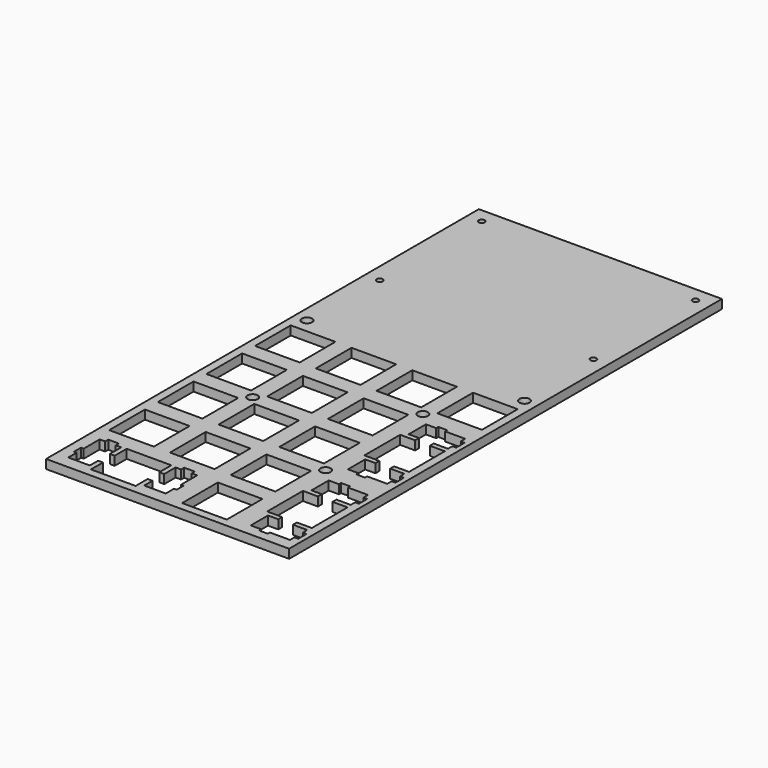
from build123d import *

# Parameters (mm, degrees)
SKETCH_W        = 76.2
SKETCH_H        = 169.6
PAD_DEPTH       = 2.8
SKETCH001_W     = 13.9993
SKETCH001_H     = 13.9993
SKETCH001_H_2   = 13.99946
SKETCH001_W_2   = 13.99955
SKETCH001_H_3   = 13.9994
POCKET_DEPTH    = 5
SKETCH002_R     = 1.6
POCKET001_DEPTH = 2.801
SKETCH011_R     = 0.95
POCKET002_DEPTH = 2.801


with BuildPart() as part:
    # Sketch → Pad (new body)
    with BuildSketch(Plane.XY):
        with Locations((38.1, 84.8)):
            Rectangle(SKETCH_W, SKETCH_H)
    extrude(amount=PAD_DEPTH)

    # Sketch001 (on Face6 of Pad) → Pocket (cut)
    with BuildSketch(Plane.XY.offset(2.8)):
        with Locations((66.674265, 85.725757)):
            Rectangle(SKETCH001_W, SKETCH001_H)
        with Locations((47.624265, 85.725757)):
            Rectangle(SKETCH001_W, SKETCH001_H)
        Polygon((5.498385, 17.495607), (5.499755, 16.295307), (3.774465, 16.295307), (3.774465, 10.025207), (2.949005, 10.025207), (2.949005, 7.225037), (3.774465, 7.225037), (3.774465, 3.994937), (10.524115, 3.994937), (10.524115, 7.225037), (12.049615, 7.225037), (12.049615, 2.525947), (26.049015, 2.525947), (26.049015, 7.225037), (27.574515, 7.225037), (27.574515, 3.994937), (34.324215, 3.994937), (34.324215, 7.225037), (35.149615, 7.225037), (35.149615, 10.025207), (34.324215, 10.025207), (34.324215, 16.295307), (32.598915, 16.295307), (32.598915, 17.495607), (29.299815, 17.495607), (29.299815, 16.295307), (27.574515, 16.295307), (27.574515, 11.824907), (26.049015, 11.824907), (26.049015, 16.525407), (12.049615, 16.525407), (12.049615, 11.824907), (10.524115, 11.824907), (10.524115, 16.295307), (8.798765, 16.295307), (8.798765, 17.495607), align=None)
        with Locations((47.624265, 9.525677)):
            Rectangle(SKETCH001_W, SKETCH001_H_2)
        Polygon((64.375015, 35.151007), (64.375015, 34.325607), (61.145015, 34.325607), (61.145015, 27.575907), (64.375015, 27.575907), (64.375015, 26.050407), (59.674615, 26.050407), (59.674615, 12.050907), (64.375015, 12.050907), (64.375015, 10.525407), (61.145015, 10.525407), (61.145015, 3.775827), (64.375015, 3.775827), (64.375015, 2.950377), (67.174015, 2.950377), (67.174015, 3.775827), (73.443915, 3.775827), (73.443915, 5.501117), (74.644015, 5.501117), (74.644015, 8.800157), (73.443915, 8.800157), (73.443915, 10.525407), (68.974915, 10.525407), (68.974915, 12.050907), (73.673915, 12.050907), (73.673915, 26.050407), (68.974915, 26.050407), (68.974915, 27.575907), (73.443915, 27.575907), (73.443915, 29.301207), (74.644015, 29.301207), (74.644015, 32.600207), (73.443915, 32.600207), (73.443915, 34.325607), (67.174015, 34.325607), (67.174015, 35.151007), align=None)
        with Locations((9.52434, 28.575607)):
            Rectangle(SKETCH001_W_2, SKETCH001_H_3)
        with Locations((28.574265, 28.575607)):
            Rectangle(SKETCH001_W, SKETCH001_H_3)
        with Locations((47.624265, 28.575607)):
            Rectangle(SKETCH001_W, SKETCH001_H_3)
        with Locations((9.52434, 47.625757)):
            Rectangle(SKETCH001_W_2, SKETCH001_H)
        with Locations((28.574265, 47.625757)):
            Rectangle(SKETCH001_W, SKETCH001_H)
        with Locations((47.624265, 47.625757)):
            Rectangle(SKETCH001_W, SKETCH001_H)
        Polygon((64.375015, 73.251007), (64.375015, 72.425507), (61.145015, 72.425507), (61.145015, 65.675807), (64.375015, 65.675807), (64.375015, 64.150407), (59.674615, 64.150407), (59.674615, 50.151107), (64.375015, 50.151107), (64.375015, 48.625307), (61.145015, 48.625307), (61.145015, 41.876007), (64.375015, 41.876007), (64.375015, 41.050507), (67.174015, 41.050507), (67.174015, 41.876007), (73.443915, 41.876007), (73.443915, 43.601007), (74.644015, 43.601007), (74.644015, 46.900207), (73.443915, 46.900207), (73.443915, 48.625307), (68.974915, 48.625307), (68.974915, 50.151107), (73.673915, 50.151107), (73.673915, 64.150407), (68.974915, 64.150407), (68.974915, 65.675807), (73.443915, 65.675807), (73.443915, 67.401207), (74.644015, 67.401207), (74.644015, 70.701807), (73.443915, 70.700407), (73.443915, 72.425507), (67.174015, 72.425507), (67.174015, 73.251007), align=None)
        with Locations((9.52434, 66.675757)):
            Rectangle(SKETCH001_W_2, SKETCH001_H)
        with Locations((28.574265, 66.675757)):
            Rectangle(SKETCH001_W, SKETCH001_H)
        with Locations((47.624265, 66.675757)):
            Rectangle(SKETCH001_W, SKETCH001_H)
        with Locations((9.52434, 85.725757)):
            Rectangle(SKETCH001_W_2, SKETCH001_H)
        with Locations((28.574265, 85.725757)):
            Rectangle(SKETCH001_W, SKETCH001_H)
    extrude(amount=-POCKET_DEPTH, mode=Mode.SUBTRACT)

    # Sketch002 (on Face5 of Pocket) → Pocket001 (cut, through all)
    with BuildSketch(Plane.XY.offset(2.8)):
        with Locations((19.049365, 57.150757)):
            Circle(SKETCH002_R)
        with Locations((57.149265, 76.200757)):
            Circle(SKETCH002_R)
        with Locations((57.149265, 38.100707)):
            Circle(SKETCH002_R)
        with Locations((4, 97.25)):
            Circle(SKETCH002_R)
        with Locations((72.2, 97.25)):
            Circle(SKETCH002_R)
    extrude(amount=-POCKET001_DEPTH, mode=Mode.SUBTRACT)

    # Sketch011 (on Face5 of Pocket001) → Pocket002 (cut, through all)
    with BuildSketch(Plane.XY.offset(2.8)):
        with Locations((4.6, 125)):
            Circle(SKETCH011_R)
        with Locations((71.6, 125)):
            Circle(SKETCH011_R)
        with Locations((4.6, 165)):
            Circle(SKETCH011_R)
        with Locations((71.6, 165)):
            Circle(SKETCH011_R)
    extrude(amount=-POCKET002_DEPTH, mode=Mode.SUBTRACT)


solid = part.part
